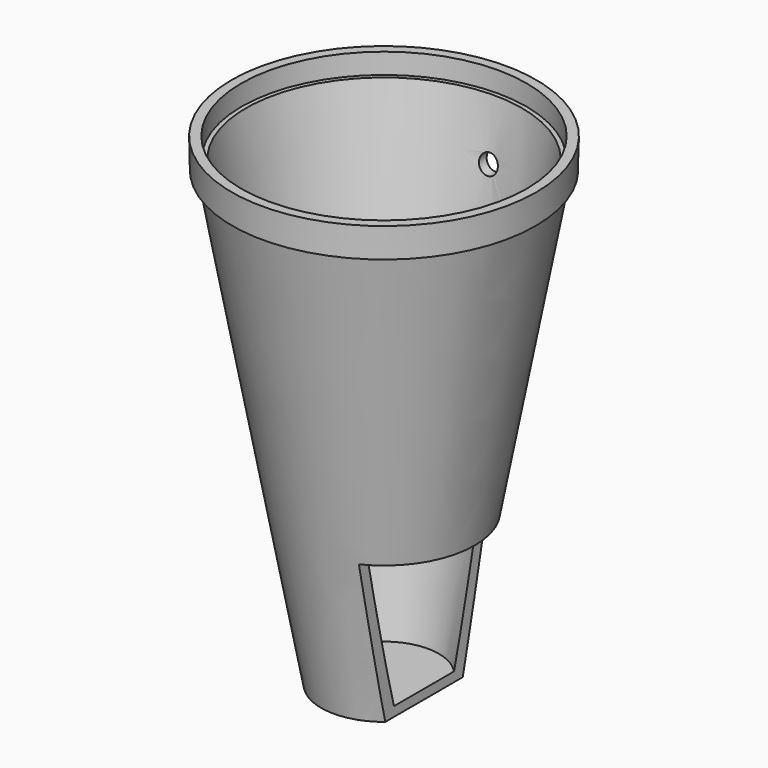
from build123d import *

# Parameters (mm, degrees)
F2_T     = -2.5
F3_W     = 23.2394424225
F3_H     = 43.3458978903
F3_R     = 2.5
F4_DEPTH = 40.0009476822
F5_DEPTH = 40.0009476822


with BuildPart() as f1:
    # F0 (on Front) → F1 (revolve)
    with BuildSketch(Plane.XZ):
        Polygon((-26.3357340748, 0.0224007943), (-26.3357340748, -126.9775992057), (-9.8357340748, -126.9775992057), (12.0191977024, -7.8678405553), (13.5191977024, -7.8678405553), (13.6642136074, -0.0422940365), align=None)
    revolve(axis=Axis((-26.3357340748, 0, -63.4775992057), (0, 0, -1)))

    # F2
    f2_openings = [f1.faces().sort_by_distance(p)[0] for p in [
        (-46.335708, 0, -0.009947),
    ]]
    offset(amount=F2_T, openings=f2_openings, kind=Kind.INTERSECTION)

    # F3 (on Front) → F4 (cut, through all)
    with BuildSketch(Plane.XZ):
        with Locations((-4.2045409791, -108.6729489452)):
            Rectangle(F3_W, F3_H)
        with Locations((-25.6951171905, -20)):
            Circle(F3_R)
    extrude(amount=-F4_DEPTH, mode=Mode.SUBTRACT)

    # F3 (on Front) → F5 (cut, through all)
    with BuildSketch(Plane.XZ):
        with Locations((-4.2045409791, -108.6729489452)):
            Rectangle(F3_W, F3_H)
    extrude(amount=F5_DEPTH, mode=Mode.SUBTRACT)


solid = f1.part
